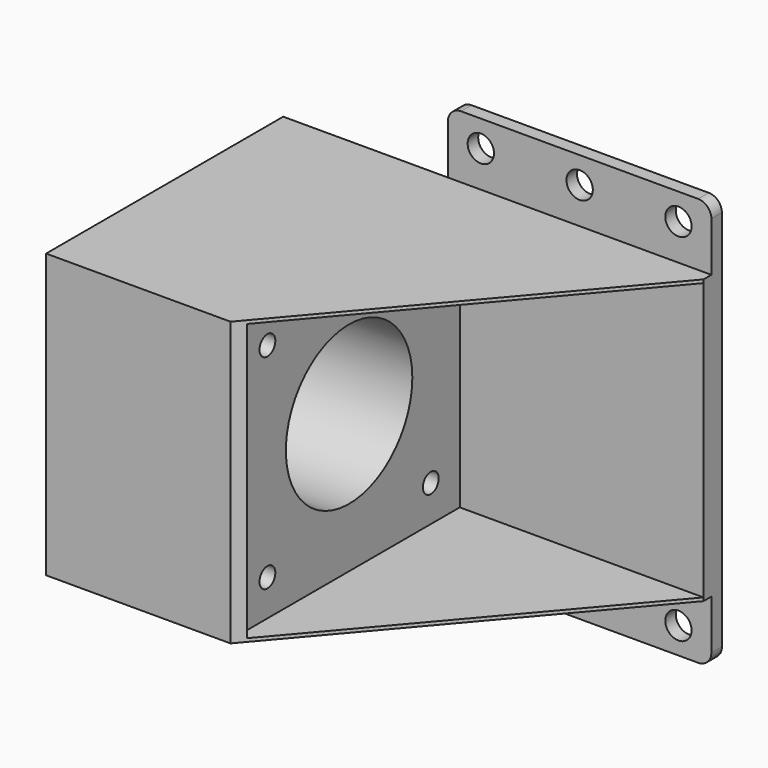
from build123d import *

# Parameters (mm, degrees)
SKETCH_W        = 45
SKETCH_H        = 43
PAD_DEPTH       = 65
SKETCH001_W     = 42
SKETCH001_H     = 42
POCKET_DEPTH    = 37
POCKET001_DEPTH = 43.001
SKETCH003_R     = 12
SKETCH003_R_2   = 1.5
POCKET002_DEPTH = 28.001
SKETCH004_R     = 6
POCKET003_DEPTH = 10
SKETCH005_W     = 62
SKETCH005_H     = 40
SKETCH005_R     = 2
PAD001_DEPTH    = 2
FILLET_R        = 2


with BuildPart() as part:
    # Sketch → Pad (new body)
    with BuildSketch(Plane.YZ):
        with Locations((22.5, 21.5)):
            Rectangle(SKETCH_W, SKETCH_H)
    extrude(amount=PAD_DEPTH)

    # Sketch001 (on Face6 of Pad) → Pocket (cut)
    with BuildSketch(Plane.YZ.offset(65)):
        with Locations((22.5, 21.5)):
            Rectangle(SKETCH001_W, SKETCH001_H)
    extrude(amount=-POCKET_DEPTH, mode=Mode.SUBTRACT)

    # Sketch002 (on Face6 of Pocket) → Pocket001 (cut, through all)
    with BuildSketch(Plane(origin=(0, 0, 43), x_dir=(0, -1, 0), z_dir=(0, 0, 1))):
        Polygon((-43.5, 65), (0, 28), (0, 65), align=None)
    extrude(amount=-POCKET001_DEPTH, mode=Mode.SUBTRACT)

    # Sketch003 (on Face12 of Pocket001) → Pocket002 (cut, through all)
    with BuildSketch(Plane.YZ.offset(28)):
        with Locations((22.5, 21.5)):
            Circle(SKETCH003_R)
        with Locations((7, 37)):
            Circle(SKETCH003_R_2)
        with Locations((38, 37)):
            Circle(SKETCH003_R_2)
        with Locations((7, 6)):
            Circle(SKETCH003_R_2)
        with Locations((38, 6)):
            Circle(SKETCH003_R_2)
    extrude(amount=-POCKET002_DEPTH, mode=Mode.SUBTRACT)

    # Sketch004 (on Face1 of Pocket002) → Pocket003 (cut)
    with BuildSketch(Plane.YX):
        with Locations((15, 10)):
            Circle(SKETCH004_R)
    extrude(amount=-POCKET003_DEPTH, mode=Mode.SUBTRACT)

    # Sketch005 (on Face4 of Pocket003) → Pad001 (join)
    with BuildSketch(Plane.ZX.offset(45)):
        with Locations((21.5, 45)):
            Rectangle(SKETCH005_W, SKETCH005_H)
        with Locations((-5.5, 60)):
            Circle(SKETCH005_R, mode=Mode.SUBTRACT)
        with Locations((-5.5, 45)):
            Circle(SKETCH005_R, mode=Mode.SUBTRACT)
        with Locations((-5.5, 30)):
            Circle(SKETCH005_R, mode=Mode.SUBTRACT)
        with Locations((48.5, 60)):
            Circle(SKETCH005_R, mode=Mode.SUBTRACT)
        with Locations((48.5, 45)):
            Circle(SKETCH005_R, mode=Mode.SUBTRACT)
        with Locations((48.5, 30)):
            Circle(SKETCH005_R, mode=Mode.SUBTRACT)
    extrude(amount=PAD001_DEPTH)

    # Fillet
    fillet_edges = [part.edges().sort_by_distance(p)[0] for p in [
        (65, 46, 52.5),
        (25, 46, 52.5),
        (65, 46, -9.5),
        (25, 46, -9.5),
    ]]
    fillet(fillet_edges, radius=FILLET_R)


solid = part.part
